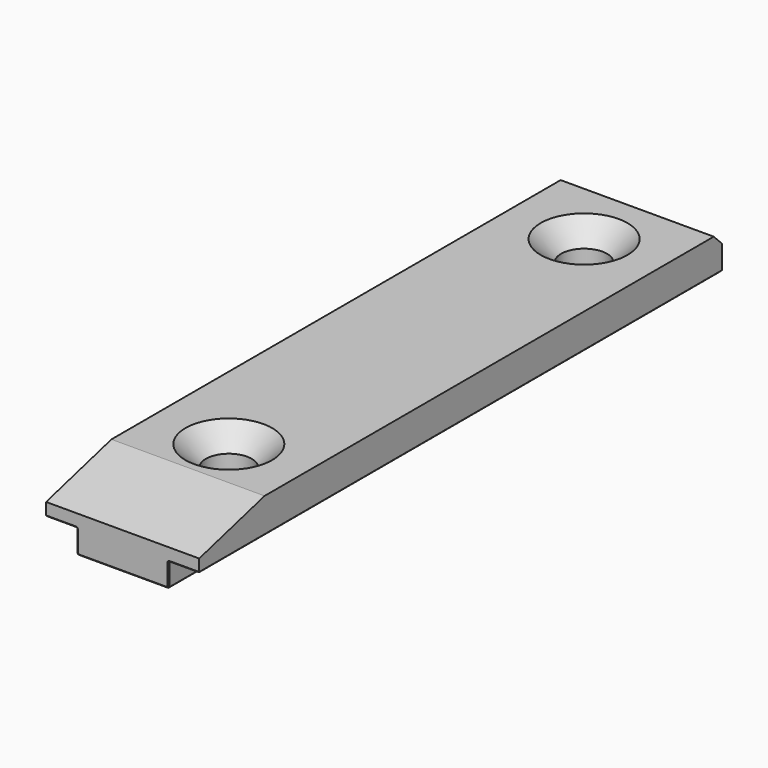
from build123d import *

# Parameters (mm, degrees)
F1_DEPTH       = 203.2
F3_DEPTH       = 47.626
F5_D           = 14.2748
F5_CSINK_D     = 26.9748
F5_CSINK_ANGLE = 90
F6_SIZE        = 3.175
F7_R           = 0.254
F8_SIZE        = 0.381


with BuildPart() as f1:
    # F0 (on Front) → F1 (new body)
    with BuildSketch(Plane.XZ):
        Polygon((47.625, 0), (0, 0), (0, -10.8712), (9.525, -10.8712), (9.525, -18.2372), (38.1, -18.2372), (38.1, -10.8712), (47.625, -10.8712), align=None)
    extrude(amount=F1_DEPTH)

    # F2 (on face) → F3 (cut, through all)
    with BuildSketch(Plane(origin=(0, 0, 0), x_dir=(0, -1, 0), z_dir=(-1, 0, 0))):
        Polygon((203.2, -6.805909), (203.2, 0), (177.8, 0), align=None)
    extrude(amount=-F3_DEPTH, mode=Mode.SUBTRACT)

    # F5 (through all)
    with Locations(Plane.XY):
        with Locations((23.8125, -23.8125), (23.8125, -161.925)):
            CounterSinkHole(F5_D / 2, F5_CSINK_D / 2, counter_sink_angle=F5_CSINK_ANGLE)

    # F6
    f6_edges = [f1.edges().sort_by_distance(p)[0] for p in [
        (23.8125, 0, 0),
    ]]
    chamfer(f6_edges, length=F6_SIZE)

    # F7
    f7_edges = [f1.edges().sort_by_distance(p)[0] for p in [
        (9.525, -101.6, -10.8712),
        (38.1, -101.6, -10.8712),
    ]]
    fillet(f7_edges, radius=F7_R)

    # F8
    f8_edges = [f1.edges().sort_by_distance(p)[0] for p in [
        (38.1, -101.6, -18.2372),
        (9.525, -101.6, -18.2372),
        (23.8125, -203.2, -18.2372),
        (23.8125, 0, -18.2372),
        (38.1, 0, -14.6812),
        (9.525, 0, -14.6812),
        (9.525, -203.2, -14.6812),
        (38.1, -203.2, -14.6812),
        (47.625, -101.6, -10.8712),
        (0, -101.6, -10.8712),
    ]]
    chamfer(f8_edges, length=F8_SIZE)


solid = f1.part
